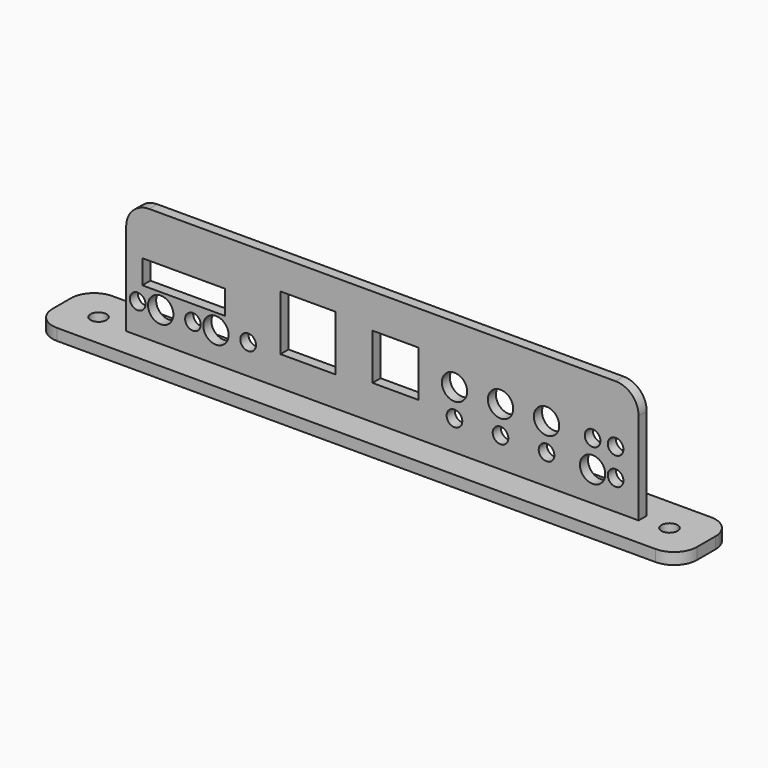
from build123d import *

# Parameters (mm, degrees)
F0_W     = 140
F0_H     = 15
F0_R     = 1.75
F1_DEPTH = 2.5
F3_DEPTH = 25
F4_W     = 18
F4_H     = 2.6
F4_W_2   = 12
F4_H_2   = 6
F4_W_3   = 10
F4_H_3   = 5
F5_DEPTH = 25
F6_D     = 3.4
F7_D     = 5.5
F8_R     = 5


with BuildPart() as f1:
    # F0 (on Top) → F1 (new body)
    with BuildSketch(Plane.XY):
        Rectangle(F0_W, F0_H)
        with Locations((-62, 0)):
            Circle(F0_R, mode=Mode.SUBTRACT)
        with Locations((62, 0)):
            Circle(F0_R, mode=Mode.SUBTRACT)
    extrude(amount=F1_DEPTH)

    # F2 (on face) → F3 (join)
    with BuildSketch(Plane.XY.offset(2.5)):
        Polygon((56.1840869486, 1.1), (-55.1196709275, 1.1), (-55.1196709275, -1.1), (56.1840869486, -1.1), (56.1840869486, 0), align=None)
    extrude(amount=F3_DEPTH)

    # F4 (on face) → F5 (cut)
    with BuildSketch(Plane(origin=(0, 1.1, 0), x_dir=(-1, 0, 0), z_dir=(0, 1, 0))):
        with Locations((42.6196709275, 16.3)):
            Rectangle(F4_W, F4_H)
        with Locations((42.6196709275, 13.7)):
            Rectangle(F4_W, F4_H)
        with Locations((15.6196709275, 18)):
            Rectangle(F4_W_2, F4_H_2)
        with Locations((15.6196709275, 12)):
            Rectangle(F4_W_2, F4_H_2)
        with Locations((-3.3803290725, 17.5)):
            Rectangle(F4_W_3, F4_H_3)
        with Locations((-3.3803290725, 12.5)):
            Rectangle(F4_W_3, F4_H_3)
    extrude(amount=-F5_DEPTH, mode=Mode.SUBTRACT)

    # F6 (through all)
    with Locations(Plane(origin=(0, 1.1, 0), x_dir=(-1, 0, 0), z_dir=(0, 1, 0))):
        with Locations((-51.1840869486, 15), (-46.1840869486, 15), (-16.1840869486, 9), (-26.1840869486, 9), (-36.1840869486, 9), (-51.1840869486, 9), (52.6196709275, 9), (40.6196709275, 9), (28.6196709275, 9)):
            Hole(F6_D / 2)

    # F7 (through all)
    with Locations(Plane(origin=(0, 1.1, 0), x_dir=(-1, 0, 0), z_dir=(0, 1, 0))):
        with Locations((-36.1840869486, 15), (-26.1840869486, 15), (-16.1840869486, 15), (-46.1840869486, 9), (47.6196709275, 9), (35.6196709275, 9)):
            Hole(F7_D / 2)

    # F8
    f8_edges = [f1.edges().sort_by_distance(p)[0] for p in [
        (56.184087, 0, 27.5),
        (-55.119671, 0, 27.5),
        (70, 7.5, 1.25),
        (70, -7.5, 1.25),
        (-70, 7.5, 1.25),
        (-70, -7.5, 1.25),
    ]]
    fillet(f8_edges, radius=F8_R)


solid = f1.part
